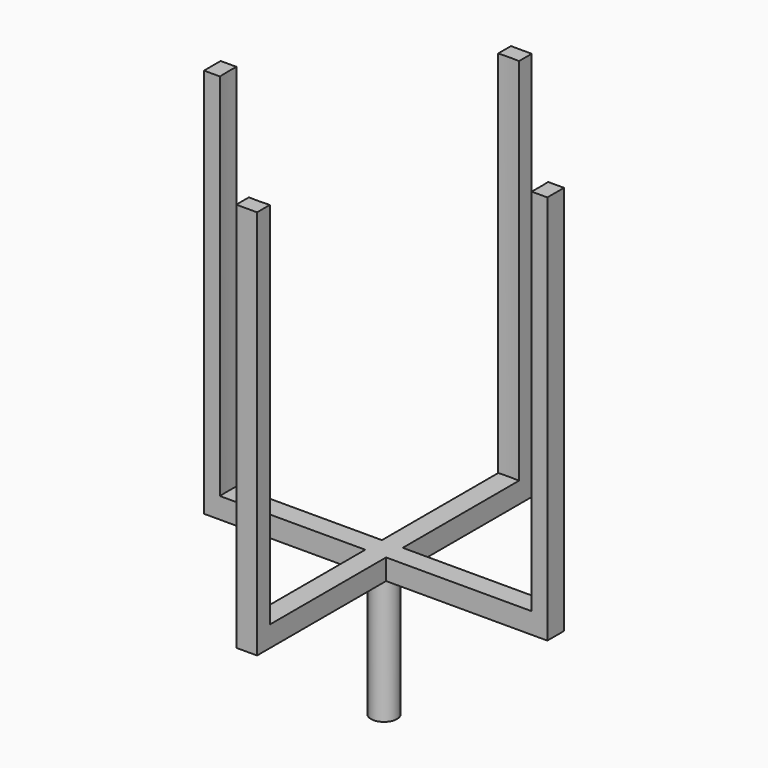
from build123d import *

# Parameters (mm, degrees)
F1_DEPTH = 50.8
F3_DEPTH = 901.7
F4_R     = 31.75
F5_DEPTH = 304.8


with BuildPart() as f1:
    # F0 (on Top) → F1 (new body)
    with BuildSketch(Plane.XY):
        Polygon((25.4, 419.1), (-25.4, 419.1), (-25.4, 25.4), (-419.1, 25.4), (-419.1, -25.4), (-25.4, -25.4), (-25.4, -419.1), (25.4, -419.1), (25.4, -25.4), (419.1, -25.4), (419.1, 25.4), (25.4, 25.4), align=None)
    extrude(amount=F1_DEPTH)

    # F2 (on face) → F3 (join)
    with BuildSketch(Plane.XY.offset(50.8)):
        with BuildLine():
            ThreePointArc((-25.4, 380.15239), (0, 381), (25.4, 380.15239))
            Line((25.4, 380.15239), (25.4, 419.1))
            Line((25.4, 419.1), (-25.4, 419.1))
            Line((-25.4, 419.1), (-25.4, 380.15239))
        make_face()
        with BuildLine():
            ThreePointArc((-380.15239, -25.4), (-381, 0), (-380.15239, 25.4))
            Line((-380.15239, 25.4), (-419.1, 25.4))
            Line((-419.1, 25.4), (-419.1, -25.4))
            Line((-419.1, -25.4), (-380.15239, -25.4))
        make_face()
        with BuildLine():
            Line((25.4, -419.1), (25.4, -380.15239))
            ThreePointArc((25.4, -380.15239), (0, -381), (-25.4, -380.15239))
            Line((-25.4, -380.15239), (-25.4, -419.1))
            Line((-25.4, -419.1), (25.4, -419.1))
        make_face()
        with BuildLine():
            ThreePointArc((380.15239, 25.4), (380.788039, 12.707069), (381, 0))
            ThreePointArc((381, 0), (380.788039, -12.707069), (380.15239, -25.4))
            Line((380.15239, -25.4), (419.1, -25.4))
            Line((419.1, -25.4), (419.1, 25.4))
            Line((419.1, 25.4), (380.15239, 25.4))
        make_face()
    extrude(amount=F3_DEPTH)

    # F4 (on face) → F5 (join)
    with BuildSketch(Plane(origin=(0, 0, 0), x_dir=(1, 0, 0), z_dir=(0, 0, -1))):
        Circle(F4_R)
    extrude(amount=F5_DEPTH)


solid = f1.part
